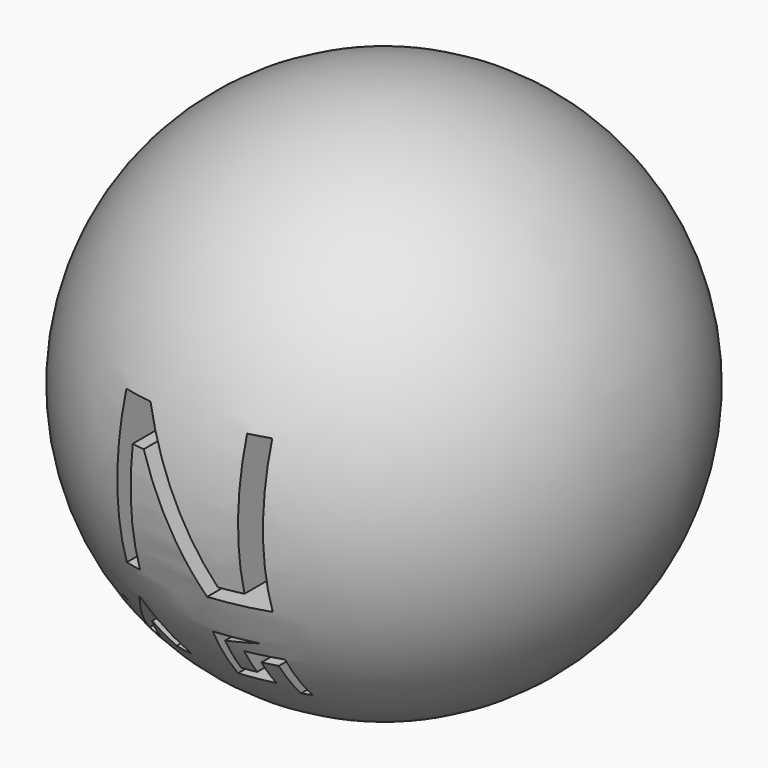
from build123d import *

# Parameters (mm, degrees)
F3_DEPTH = 63.5


with BuildPart() as f1:
    # F0 (on Front) → F1 (revolve)
    with BuildSketch(Plane.XZ):
        with BuildLine():
            ThreePointArc((0, -48.00979), (48.00979, 0), (0, 48.00979))
            Line((0, 48.00979), (0, -48.00979))
        make_face()
    revolve(axis=Axis((0, 0, 0), (0, 0, -1)))

    # F2 (on Front) → F3 (cut, symmetric)
    with BuildSketch(Plane.XZ):
        Polygon((-11.175486, 13.766903), (-11.175486, -11.661377), (-11.175486, -14.09083), (-8.260142, -14.09083), (-8.260142, 6.7734), (-5.992652, 6.7734), (4.373015, -14.09083), (14.576722, -14.09083), (14.576722, 13.766903), (10.851558, 13.766903), (10.851558, -11.661377), (6.640505, -11.661377), (-5.992652, 13.766903), align=None)
        Polygon((-15.386539, -30.125223), (-12.471194, -30.125223), (-10.851558, -25.536256), (-8.260142, -29.639332), (-5.020871, -29.639332), (-10.851558, -20.40741), align=None)
        Polygon((4.858908, -22.350971), (10.851558, -21.055264), (3.239271, -21.055264), (3.239271, -30.125223), (9.393888, -30.125223), (9.393888, -25.428278), (11.985305, -25.428278), (11.985305, -31.906821), (13.604939, -31.906821), (13.604939, -23.646681), (9.393888, -23.646681), (7.450324, -23.646681), (7.450324, -28.181661), (4.858908, -28.181661), align=None)
    extrude(amount=F3_DEPTH, both=True, mode=Mode.SUBTRACT)


solid = f1.part
